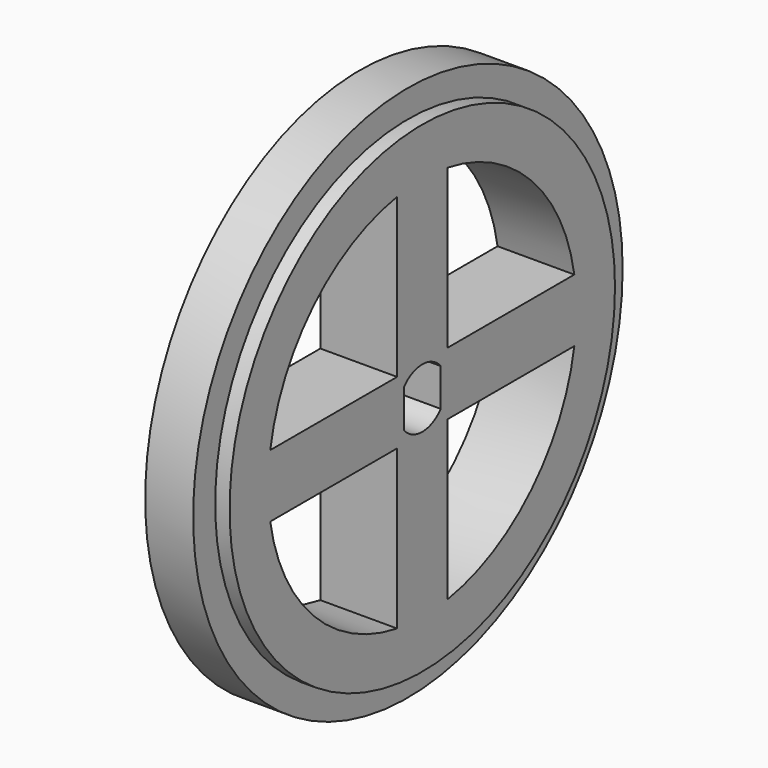
from build123d import *

# Parameters (mm, degrees)
F0_R     = 25.1
F1_DEPTH = 8
F3_DEPTH = 7
F4_R     = 1.5
F5_DEPTH = 25
F6_W     = 5
F6_H     = 2.87


with BuildPart() as f1:
    # F0 (on Right) → F1 (new body)
    with BuildSketch(Plane.YZ):
        Circle(F0_R)
        with BuildLine():
            ThreePointArc((-3.277508, -19.802201), (-14.192766, -14.192766), (-19.802201, -3.277508))
            Line((-19.802201, -3.277508), (-3.277508, -3.277508))
            Line((-3.277508, -3.277508), (-3.277508, -19.802201))
        make_face(mode=Mode.SUBTRACT)
        with BuildLine():
            ThreePointArc((19.802201, -3.277508), (14.192766, -14.192766), (3.277508, -19.802201))
            Line((3.277508, -19.802201), (3.277508, -3.277508))
            Line((3.277508, -3.277508), (19.802201, -3.277508))
        make_face(mode=Mode.SUBTRACT)
        with BuildLine():
            ThreePointArc((-19.802201, 3.277508), (-14.192766, 14.192766), (-3.277508, 19.802201))
            Line((-3.277508, 19.802201), (-3.277508, 3.277508))
            Line((-3.277508, 3.277508), (-19.802201, 3.277508))
        make_face(mode=Mode.SUBTRACT)
        with BuildLine():
            Line((3.277508, 3.277508), (3.277508, 19.802201))
            ThreePointArc((3.277508, 19.802201), (14.192766, 14.192766), (19.802201, 3.277508))
            Line((19.802201, 3.277508), (3.277508, 3.277508))
        make_face(mode=Mode.SUBTRACT)
    extrude(amount=F1_DEPTH)

    # F2 (on face) → F3 (cut)
    with BuildSketch(Plane.YZ.offset(8)):
        with BuildLine():
            Line((-2.4, 1.962142), (-2.4, -1.962142))
            ThreePointArc((-2.4, -1.962142), (0, -3.1), (2.4, -1.962142))
            Line((2.4, -1.962142), (2.4, 1.962142))
            ThreePointArc((2.4, 1.962142), (0, 3.1), (-2.4, 1.962142))
        make_face()
    extrude(amount=-F3_DEPTH, mode=Mode.SUBTRACT)

    # F4 (on face) → F5 (cut)
    with BuildSketch(Plane.YZ.offset(1)):
        Circle(F4_R)
    extrude(amount=-F5_DEPTH, mode=Mode.SUBTRACT)

    # F6 (on Top) → F7 (revolve)
    with BuildSketch(Plane.XY):
        with Locations((4, 26.535)):
            Rectangle(F6_W, F6_H)
    revolve(axis=Axis((8, 0, 0), (1, 0, 0)))


solid = f1.part
